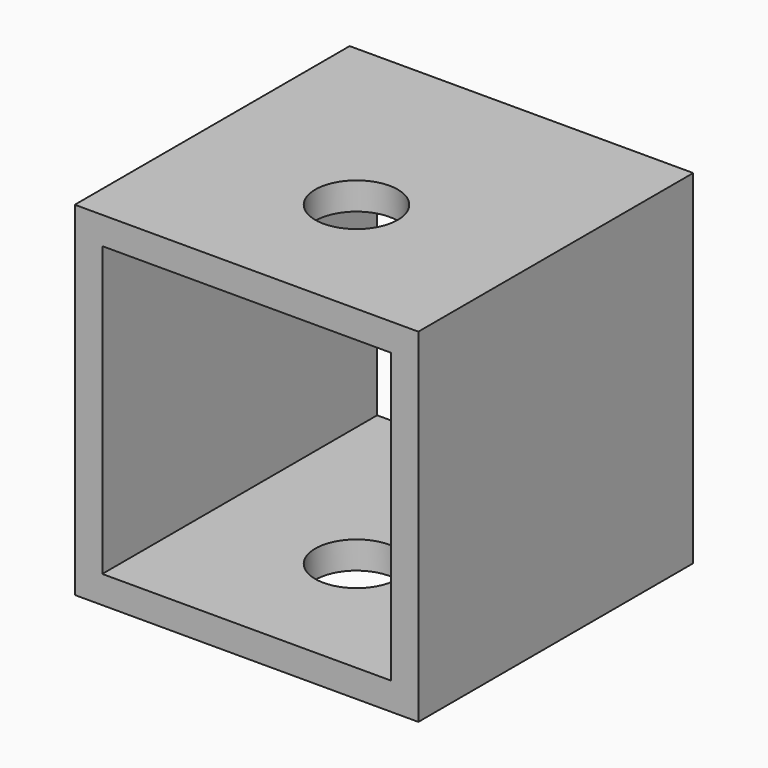
from build123d import *

# Parameters (mm, degrees)
F0_W     = 50
F0_H     = 50
F0_W_2   = 42
F0_H_2   = 42
F1_DEPTH = 50
F2_R     = 6
F3_DEPTH = 50.001


with BuildPart() as f1:
    # F0 (on Front) → F1 (new body)
    with BuildSketch(Plane.XZ):
        with Locations((-25, -25)):
            Rectangle(F0_W, F0_H)
        with Locations((-25, -25)):
            Rectangle(F0_W_2, F0_H_2, mode=Mode.SUBTRACT)
    extrude(amount=F1_DEPTH)

    # F2 (on face) → F3 (cut, through all)
    with BuildSketch(Plane.XY):
        with Locations((-25, -30)):
            Circle(F2_R)
    extrude(amount=-F3_DEPTH, mode=Mode.SUBTRACT)


solid = f1.part
